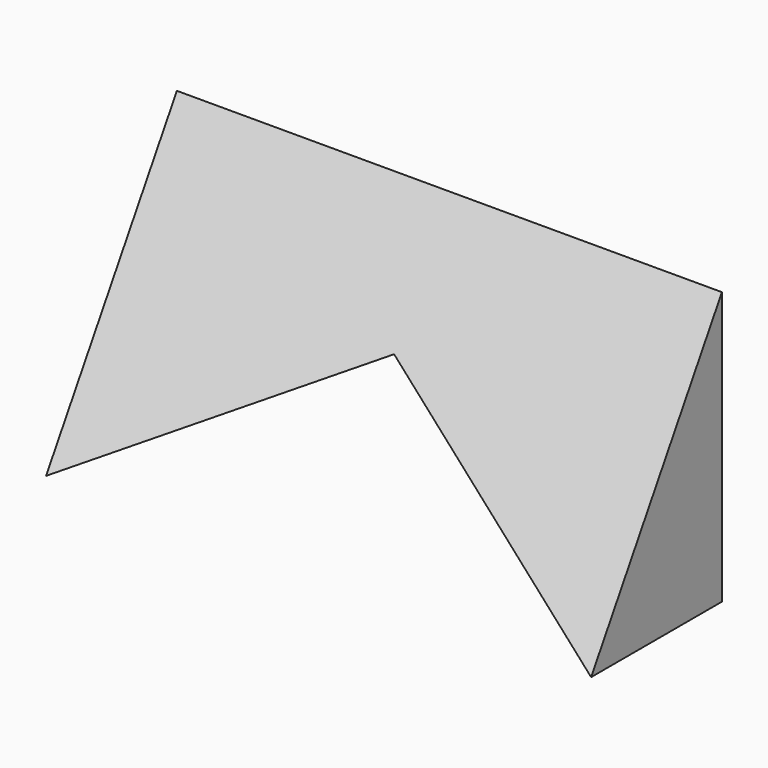
from build123d import *

# Parameters (mm, degrees)
F1_DEPTH = 38.1
F3_DEPTH = 127


with BuildPart() as f1:
    # F0 (on Front) → F1 (new body)
    with BuildSketch(Plane.XZ):
        Polygon((63.5, 38.926879), (-63.5, 38.926879), (-63.5, -24.573121), (0, 12.088621), (63.5, -24.573121), align=None)
    extrude(amount=F1_DEPTH)

    # F2 (on face) → F3 (cut)
    with BuildSketch(Plane.YZ.offset(63.5)):
        Polygon((-38.1, 38.926879), (-38.1, -24.573121), (0, 38.926879), align=None)
    extrude(amount=-F3_DEPTH, mode=Mode.SUBTRACT)


solid = f1.part
